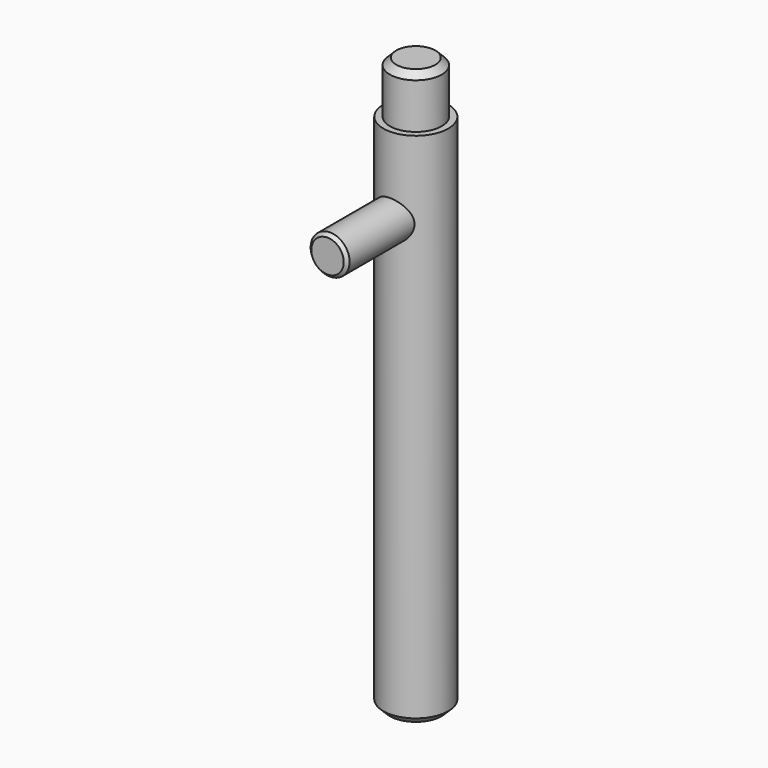
from build123d import *

# Parameters (mm, degrees)
F0_R          = 4
F1_DEPTH      = 8
F1_DEPTH_BACK = 80
F0_R_2        = 5
F2_DEPTH      = 80
F3_R          = 3
F4_DEPTH      = 17
F5_SIZE       = 1
F6_SIZE       = 0.5


with BuildPart() as f1:
    # F0 (on Top) → F1 (new body, two sides)
    with BuildSketch(Plane.XY) as f1_sk:
        Circle(F0_R)
    extrude(amount=F1_DEPTH)
    extrude(f1_sk.sketch, amount=-F1_DEPTH_BACK)



with BuildPart() as f2:
    # F0 (on Top) → F2 (new body)
    with BuildSketch(Plane.XY):
        Circle(F0_R_2)
        Circle(F0_R, mode=Mode.SUBTRACT)
    extrude(amount=-F2_DEPTH)


with BuildPart() as f1_1:
    add(f1.part)

    add(f2.part)  # F4 merges F2
    # F3 (on Front) → F4 (join)
    with BuildSketch(Plane.XZ):
        with Locations((0, -12)):
            Circle(F3_R)
    extrude(amount=F4_DEPTH)

    # F5
    f5_edges = [f1_1.edges().sort_by_distance(p)[0] for p in [
        (-5, 0, -80),
        (-4, 0, 8),
    ]]
    chamfer(f5_edges, length=F5_SIZE)

    # F6
    f6_edges = [f1_1.edges().sort_by_distance(p)[0] for p in [
        (-3, -17, -12),
    ]]
    chamfer(f6_edges, length=F6_SIZE)


solid = f1_1.part
